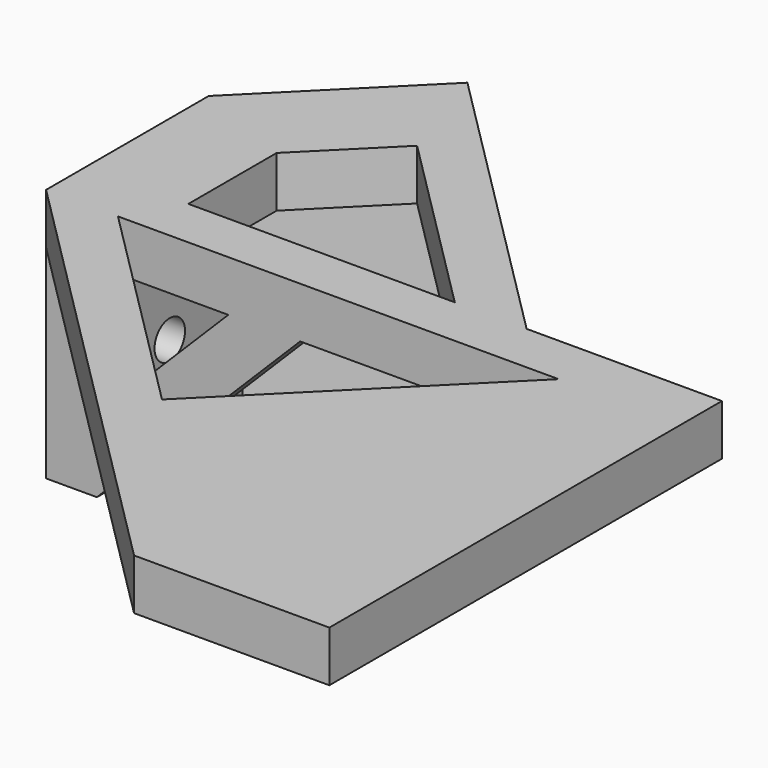
from build123d import *

# Parameters (mm, degrees)
F1_DEPTH  = 50
F3_DEPTH  = 10
F5_R      = 3.75
F6_DEPTH  = 10.001
F4_R      = 3.75
F7_DEPTH  = 30.001
F9_DEPTH  = 5
F11_DEPTH = 5
F13_DEPTH = 10


with BuildPart() as f1:
    # F0 (on Top) → F1 (new body)
    with BuildSketch(Plane.XY):
        Polygon((0, 40), (0, 0), (10, 0), (10, 35.8578643763), (35.3553390593, 61.2132034356), (28.2842712475, 68.2842712475), align=None)
    extrude(amount=F1_DEPTH)

    # F2 (on face) → F3 (join)
    with BuildSketch(Plane.XY.offset(50)):
        Polygon((86.5685424949, 10), (35.3553390593, 61.2132034356), (10, 35.8578643763), (10, 0), (125, 0), (125, 10), align=None)
        Polygon((35.3553390593, 47.0710678119), (72.4264068712, 10), (20, 10), (20, 31.7157287525), align=None, mode=Mode.SUBTRACT)
    extrude(amount=-F3_DEPTH)

    # F5 (on face) → F6 (cut, through all)
    with BuildSketch(Plane.YZ.offset(10)):
        with Locations((17.9289321881, 20)):
            Circle(F5_R)
    extrude(amount=-F6_DEPTH, mode=Mode.SUBTRACT)

    # F4 (on face) → F7 (cut, through all)
    with BuildSketch(Plane(origin=(-12.9289321881, 12.9289321881, 0), x_dir=(0.7071067812, 0.7071067812, 0), z_dir=(0.7071067812, -0.7071067812, 0))):
        with Locations((50.3553390593, 20)):
            Circle(F4_R)
    extrude(amount=-F7_DEPTH, mode=Mode.SUBTRACT)

    # F8 (on face) → F9 (join)
    with BuildSketch(Plane.XZ):
        Polygon((10, 14.1421356237), (10, 0), (50, 40), (35.8578643763, 40), align=None)
    extrude(amount=-F9_DEPTH)

    # F10 (on face) → F11 (join)
    with BuildSketch(Plane(origin=(48.2842712475, 48.2842712475, 0), x_dir=(-0.7071067812, 0.7071067812, 0), z_dir=(0.7071067812, 0.7071067812, 0))):
        Polygon((-21.7157287525, 40), (18.2842712475, 0), (18.2842712475, 14.1421356237), (-7.5735931288, 40), align=None)
    extrude(amount=-F11_DEPTH)

    # F12 (on face) → F13 (join, through all)
    with BuildSketch(Plane.XY.offset(50)):
        Polygon((14.1421356237, 0), (0, 0), (86.5685424949, -86.5685424949), (125, -86.5685424949), (125, -76.5685424949), (125, 0), (115, 0), (100.8578643763, 0), (57.5, -43.3578643763), align=None)
        Polygon((64.5710678119, -50.4289321881), (115, 0), (115, -76.5685424949), (90.7106781187, -76.5685424949), align=None, mode=Mode.SUBTRACT)
        Polygon((115, -76.5685424949), (115, 0), (64.5710678119, -50.4289321881), (90.7106781187, -76.5685424949), align=None)
    extrude(amount=-F13_DEPTH)


solid = f1.part
